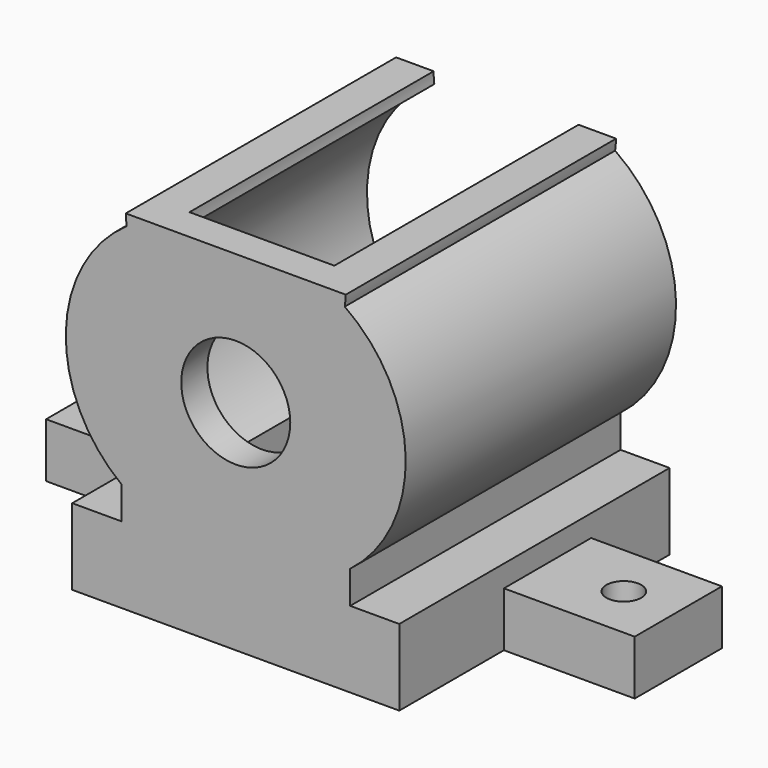
from build123d import *

# Parameters (mm, degrees)
BOX004_W               = 24
BOX004_H               = 42
BOX004_DEPTH           = 13
SKETCH002_R            = 5
EXTRUDE002_DEPTH       = 3
CYLINDER005_R          = 1.6
CYLINDER005_DEPTH      = 10
BOX003_W               = 12
BOX003_H               = 10
BOX003_DEPTH           = 5
CUT003_PLACEMENT_ANGLE = 180
CYLINDER004_R          = 1.6
CYLINDER004_DEPTH      = 10
BOX002_W               = 12
BOX002_H               = 10
BOX002_DEPTH           = 5
BOX001_W               = 3
BOX001_H               = 2
BOX001_DEPTH           = 2
CYLINDER003_R          = 1.25
CYLINDER003_DEPTH      = 10
CYLINDER002_R          = 1.25
CYLINDER002_DEPTH      = 10
EXTRUDE001_DEPTH       = 28


with BuildPart() as cube004:
    # Box004 → Box004 (new body)
    with BuildSketch(Plane(origin=(-12, -2, 12), x_dir=(1, 0, 0), z_dir=(0, 0, 1))):
        with Locations((12, 21)):
            Rectangle(BOX004_W, BOX004_H)
    extrude(amount=BOX004_DEPTH)


with BuildPart() as front_cover:
    # Sketch002 → Extrude002 (new body)
    with BuildSketch(Plane.XZ):
        with BuildLine():
            ThreePointArc((10, 11), (0, 22.517745), (-10, 11))
            ThreePointArc((-10, 11), (-15.587711, 0.627088), (-10.5, -10))
            Line((-10.5, -10), (-10.5, -13))
            Line((-10.5, -13), (-15, -13))
            Line((-15, -13), (-15, -20))
            Line((-15, -20), (15, -20))
            Line((15, -13), (15, -20))
            Line((10.5, -13), (15, -13))
            Line((10.5, -10), (10.5, -13))
            ThreePointArc((10.5, -10), (15.587711, 0.627088), (10, 11))
        make_face()
        Circle(SKETCH002_R, mode=Mode.SUBTRACT)
    extrude(amount=-EXTRUDE002_DEPTH)


with BuildPart() as cylinder005:
    # Cylinder005 → Cylinder005 (new body)
    with BuildSketch(Plane(origin=(22, 17, -22), x_dir=(1, 0, 0), z_dir=(0, 0, 1))):
        Circle(CYLINDER005_R)
    extrude(amount=CYLINDER005_DEPTH)


with BuildPart() as cut003:
    # Box003 → Box003 (new body)
    with BuildSketch(Plane(origin=(15, 12, -20), x_dir=(1, 0, 0), z_dir=(0, 0, 1))):
        with Locations((6, 5)):
            Rectangle(BOX003_W, BOX003_H)
    extrude(amount=BOX003_DEPTH)

    # Cut003: cut Cylinder005
    add(cylinder005.part, mode=Mode.SUBTRACT)


with BuildPart() as cut003_1:
    # Cut003 placement: moved
    add(cut003.part.moved(Location((0, 34, 0))).rotate(Axis((0, 34, 0), (0, 0, 1)), CUT003_PLACEMENT_ANGLE))


with BuildPart() as cylinder004:
    # Cylinder004 → Cylinder004 (new body)
    with BuildSketch(Plane(origin=(22, 17, -22), x_dir=(1, 0, 0), z_dir=(0, 0, 1))):
        Circle(CYLINDER004_R)
    extrude(amount=CYLINDER004_DEPTH)


with BuildPart() as cut002:
    # Box002 → Box002 (new body)
    with BuildSketch(Plane(origin=(15, 12, -20), x_dir=(1, 0, 0), z_dir=(0, 0, 1))):
        with Locations((6, 5)):
            Rectangle(BOX002_W, BOX002_H)
    extrude(amount=BOX002_DEPTH)

    # Cut002: cut Cylinder004
    add(cylinder004.part, mode=Mode.SUBTRACT)


with BuildPart() as cube001:
    # Box001 → Box001 (new body)
    with BuildSketch(Plane(origin=(-1.5, 29, 19.5), x_dir=(1, 0, 0), z_dir=(0, 0, 1))):
        with Locations((1.5, 1)):
            Rectangle(BOX001_W, BOX001_H)
    extrude(amount=BOX001_DEPTH)


with BuildPart() as cylinder003:
    # Cylinder003 → Cylinder003 (new body)
    with BuildSketch(Plane(origin=(-10.87, 21, -16.5), x_dir=(1, 0, 0), z_dir=(0, 1, 0))):
        Circle(CYLINDER003_R)
    extrude(amount=CYLINDER003_DEPTH)


with BuildPart() as m2_cyl:
    # Cylinder002 → Cylinder002 (new body)
    with BuildSketch(Plane(origin=(10.87, 21, -16.5), x_dir=(1, 0, 0), z_dir=(0, 1, 0))):
        Circle(CYLINDER002_R)
    extrude(amount=CYLINDER002_DEPTH)

    # Fusion: union Cylinder003
    add(cylinder003.part)


with BuildPart() as outerbox:
    # Sketch001 → Extrude001 (new body)
    with BuildSketch(Plane.XZ):
        with BuildLine():
            ThreePointArc((10, 11), (0, 22.517745), (-10, 11))
            ThreePointArc((-10, 11), (-15.587711, 0.627088), (-10.5, -10))
            Line((-10.5, -10), (-10.5, -13))
            Line((-10.5, -13), (-15, -13))
            Line((-15, -13), (-15, -20))
            Line((-15, -20), (15, -20))
            Line((15, -13), (15, -20))
            Line((10.5, -13), (15, -13))
            Line((10.5, -10), (10.5, -13))
            ThreePointArc((10.5, -10), (15.587711, 0.627088), (10, 11))
        make_face()
        with BuildLine():
            Line((-7.5, -10), (-7.5, -16))
            Line((-7.5, -16), (7.5, -16))
            Line((7.5, -16), (7.5, -10))
            ThreePointArc((7.5, -10), (12.754076, 0.73948), (6.583703, 10.98))
            ThreePointArc((6.583703, 10.98), (0, 18.524934), (-6.583703, 10.98))
            ThreePointArc((-6.583703, 10.98), (-12.754076, 0.73948), (-7.5, -10))
        make_face(mode=Mode.SUBTRACT)
    extrude(amount=-EXTRUDE001_DEPTH)


with BuildPart() as outerbox_1:
    # Extrude001 placement: moved
    add(outerbox.part.moved(Location((0, 3, 0))))

    # Cut: cut m2_cyl
    add(m2_cyl.part, mode=Mode.SUBTRACT)

    # Cut001: cut Cube001
    add(cube001.part, mode=Mode.SUBTRACT)

    # Fusion002: union Front_cover, Cut003, Cut002
    add(front_cover.part)
    add(cut003_1.part)
    add(cut002.part)

    # Cut004: cut Cube004
    add(cube004.part, mode=Mode.SUBTRACT)


solid = outerbox_1.part
